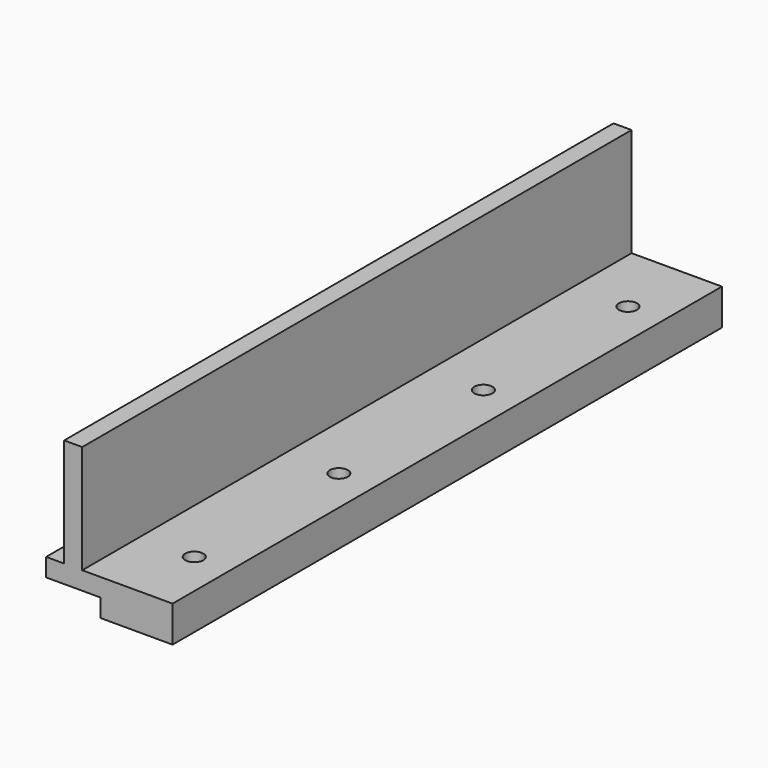
from build123d import *

# Parameters (mm, degrees)
F0_W     = 20
F0_H     = 190
F0_R     = 2.5
F1_DEPTH = 10
F2_W     = 190
F2_H     = 5
F3_DEPTH = 15
F4_W     = 5
F4_H     = 190
F5_DEPTH = 30


with BuildPart() as f1:
    # F0 (on Top) → F1 (new body)
    with BuildSketch(Plane.XY):
        with Locations((0, 46.986108)):
            Rectangle(F0_W, F0_H)
        with Locations((0, -28.013892)):
            Circle(F0_R, mode=Mode.SUBTRACT)
        with Locations((0, 21.986108)):
            Circle(F0_R, mode=Mode.SUBTRACT)
        with Locations((0, 71.986108)):
            Circle(F0_R, mode=Mode.SUBTRACT)
        with Locations((0, 121.986108)):
            Circle(F0_R, mode=Mode.SUBTRACT)
    extrude(amount=F1_DEPTH)

    # F2 (on face) → F3 (join)
    with BuildSketch(Plane(origin=(-10, 0, 0), x_dir=(0, -1, 0), z_dir=(-1, 0, 0))):
        with Locations((-46.986108, 7.5)):
            Rectangle(F2_W, F2_H)
    extrude(amount=F3_DEPTH)

    # F4 (on face) → F5 (join)
    with BuildSketch(Plane.XY.offset(10)):
        with Locations((-17.5, 46.986108)):
            Rectangle(F4_W, F4_H)
    extrude(amount=F5_DEPTH)


solid = f1.part
